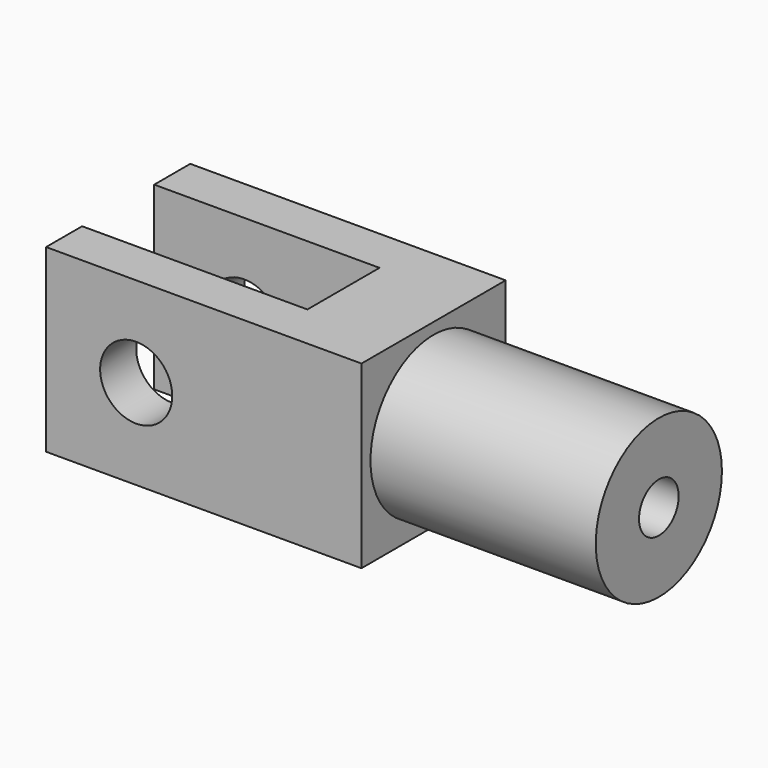
from build123d import *

# Parameters (mm, degrees)
F0_W      = 40
F0_H      = 40
F1_DEPTH  = 120
F2_W      = 40
F2_H      = 40
F2_R      = 17.5
F3_DEPTH  = 50
F4_R      = 5.5
F5_DEPTH  = 100
F6_W      = 20
F6_H      = 40
F7_DEPTH  = 50
F8_R      = 10
F9_DEPTH  = 15
F10_R     = 8
F11_DEPTH = 60


with BuildPart() as f1:
    # F0 (on Right) → F1 (new body)
    with BuildSketch(Plane.YZ):
        Rectangle(F0_W, F0_H)
    extrude(amount=-F1_DEPTH)

    # F2 (on face) → F3 (cut)
    with BuildSketch(Plane.YZ):
        Rectangle(F2_W, F2_H)
        Circle(F2_R, mode=Mode.SUBTRACT)
    extrude(amount=-F3_DEPTH, mode=Mode.SUBTRACT)

    # F4 (on face) → F5 (cut)
    with BuildSketch(Plane.YZ):
        Circle(F4_R)
    extrude(amount=-F5_DEPTH, mode=Mode.SUBTRACT)

    # F6 (on face) → F7 (cut)
    with BuildSketch(Plane(origin=(-120, 0, 0), x_dir=(0, -1, 0), z_dir=(-1, 0, 0))):
        Rectangle(F6_W, F6_H)
    extrude(amount=-F7_DEPTH, mode=Mode.SUBTRACT)

    # F8 (on face) → F9 (cut)
    with BuildSketch(Plane(origin=(-70, 0, 0), x_dir=(0, -1, 0), z_dir=(-1, 0, 0))):
        Circle(F8_R)
    extrude(amount=-F9_DEPTH, mode=Mode.SUBTRACT)

    # F10 (on face) → F11 (cut, symmetric)
    with BuildSketch(Plane.XZ.offset(20)):
        with Locations((-100, 0)):
            Circle(F10_R)
    extrude(amount=F11_DEPTH, both=True, mode=Mode.SUBTRACT)


solid = f1.part
